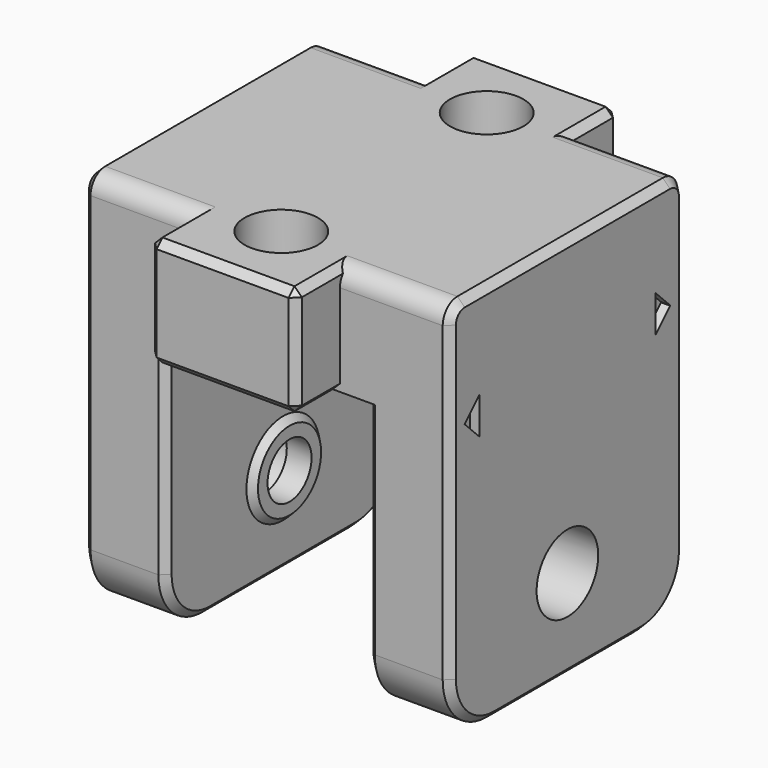
from build123d import *

# Parameters (mm, degrees)
BOX012001004_W     = 1
BOX012001004_H     = 1
BOX012001004_DEPTH = 2
CHAMFER025_SIZE    = 0.99
BOX012001003_W     = 1
BOX012001003_H     = 1
BOX012001003_DEPTH = 2
CHAMFER024_SIZE    = 0.99
CYLINDER014_R      = 2.1
CYLINDER014_DEPTH  = 3.5
CYLINDER015_R      = 2.1
CYLINDER015_DEPTH  = 3.5
CYLINDER004_R      = 1.5
CYLINDER004_DEPTH  = 20
CYLINDER019_R      = 2
CYLINDER019_DEPTH  = 20
CYLINDER018_R      = 2
CYLINDER018_DEPTH  = 20
BOX008_W           = 8
BOX008_H           = 5
BOX008_DEPTH       = 6
CHAMFER015_SIZE    = 0.4
BOX007_W           = 8
BOX007_H           = 5
BOX007_DEPTH       = 6
CHAMFER016_SIZE    = 0.4
BOX002_W           = 20
BOX002_H           = 16
BOX002_DEPTH       = 6
FILLET002_R        = 1
CHAMFER019_SIZE    = 0.4
BOX001_W           = 4.5
BOX001_H           = 16
BOX001_DEPTH       = 15
FILLET001_R        = 3
CHAMFER011_SIZE    = 0.4
CHAMFER018_SIZE    = 0.4
BOX_W              = 4.5
BOX_H              = 16
BOX_DEPTH          = 15
FILLET_R           = 3
CHAMFER010_SIZE    = 0.4
CHAMFER017_SIZE    = 0.4
CYLINDER005_R      = 2.5
CYLINDER005_DEPTH  = 1
CHAMFER001_SIZE    = 0.35
CYLINDER006_R      = 2.5
CYLINDER006_DEPTH  = 1
CHAMFER_SIZE       = 0.35


with BuildPart() as chamfer025:
    # Box012001004 → Box012001004 (new body)
    with BuildSketch(Plane(origin=(9.5, 6, -2), x_dir=(1, 0, 0), z_dir=(0, 0, 1))):
        with Locations((0.5, 0.5)):
            Rectangle(BOX012001004_W, BOX012001004_H)
    extrude(amount=BOX012001004_DEPTH)

    # Chamfer025
    chamfer025_edges = [chamfer025.edges().sort_by_distance(p)[0] for p in [
        (10, 7, -2),
        (10, 7, 0),
    ]]
    chamfer(chamfer025_edges, length=CHAMFER025_SIZE)


with BuildPart() as fusion020006007018006:
    # Box012001003 → Box012001003 (new body)
    with BuildSketch(Plane(origin=(9.5, -7, -2), x_dir=(1, 0, 0), z_dir=(0, 0, 1))):
        with Locations((0.5, 0.5)):
            Rectangle(BOX012001003_W, BOX012001003_H)
    extrude(amount=BOX012001003_DEPTH)

    # Chamfer024
    chamfer024_edges = [fusion020006007018006.edges().sort_by_distance(p)[0] for p in [
        (10, -7, -2),
        (10, -7, 0),
    ]]
    chamfer(chamfer024_edges, length=CHAMFER024_SIZE)

    # Fusion020006007018006: union Chamfer025
    add(chamfer025.part)


with BuildPart() as cylinder014:
    # Cylinder014 → Cylinder014 (new body)
    with BuildSketch(Plane(origin=(-10, 0, 5), x_dir=(0, 0, -1), z_dir=(1, 0, 0))):
        Circle(CYLINDER014_R)
    extrude(amount=CYLINDER014_DEPTH)


with BuildPart() as fusion020006007006:
    # Cylinder015 → Cylinder015 (new body)
    with BuildSketch(Plane(origin=(6.5, 0, 5), x_dir=(0, 0, -1), z_dir=(1, 0, 0))):
        Circle(CYLINDER015_R)
    extrude(amount=CYLINDER015_DEPTH)

    # Fusion020006007006: union Cylinder014
    add(cylinder014.part)


with BuildPart() as cylinder004:
    # Cylinder004 → Cylinder004 (new body)
    with BuildSketch(Plane(origin=(-10, 0, 5), x_dir=(0, 0, -1), z_dir=(1, 0, 0))):
        Circle(CYLINDER004_R)
    extrude(amount=CYLINDER004_DEPTH)


with BuildPart() as cylinder019:
    # Cylinder019 → Cylinder019 (new body)
    with BuildSketch(Plane(origin=(0, 7, 12), x_dir=(1, 0, 0), z_dir=(0, 0, 1))):
        Circle(CYLINDER019_R)
    extrude(amount=CYLINDER019_DEPTH)


with BuildPart() as fusion020006007013:
    # Cylinder018 → Cylinder018 (new body)
    with BuildSketch(Plane(origin=(0, -7, 12), x_dir=(1, 0, 0), z_dir=(0, 0, 1))):
        Circle(CYLINDER018_R)
    extrude(amount=CYLINDER018_DEPTH)

    # Fusion020006007013: union Cylinder019
    add(cylinder019.part)


with BuildPart() as chamfer015:
    # Box008 → Box008 (new body)
    with BuildSketch(Plane(origin=(-4, -10, 15), x_dir=(1, 0, 0), z_dir=(0, 0, 1))):
        with Locations((4, 2.5)):
            Rectangle(BOX008_W, BOX008_H)
    extrude(amount=BOX008_DEPTH)

    # Chamfer015
    chamfer015_edges = [chamfer015.edges().sort_by_distance(p)[0] for p in [
        (-4, -10, 18),
        (-4, -7.5, 21),
        (-4, -5, 18),
        (-4, -7.5, 15),
        (4, -10, 18),
        (4, -7.5, 21),
        (4, -5, 18),
        (4, -7.5, 15),
        (0, -10, 15),
        (0, -10, 21),
        (0, -5, 15),
        (0, -5, 21),
    ]]
    chamfer(chamfer015_edges, length=CHAMFER015_SIZE)


with BuildPart() as chamfer015_1:
    # Chamfer015 placement: moved
    add(chamfer015.part.moved(Location((0, -1, 0))))


with BuildPart() as chamfer016:
    # Box007 → Box007 (new body)
    with BuildSketch(Plane(origin=(-4, 5, 15), x_dir=(1, 0, 0), z_dir=(0, 0, 1))):
        with Locations((4, 2.5)):
            Rectangle(BOX007_W, BOX007_H)
    extrude(amount=BOX007_DEPTH)

    # Chamfer016
    chamfer016_edges = [chamfer016.edges().sort_by_distance(p)[0] for p in [
        (-4, 5, 18),
        (-4, 7.5, 21),
        (-4, 10, 18),
        (-4, 7.5, 15),
        (4, 5, 18),
        (4, 7.5, 21),
        (4, 10, 18),
        (4, 7.5, 15),
        (0, 5, 21),
        (0, 10, 15),
        (0, 10, 21),
    ]]
    chamfer(chamfer016_edges, length=CHAMFER016_SIZE)


with BuildPart() as chamfer016_1:
    # Chamfer016 placement: moved
    add(chamfer016.part.moved(Location((0, 1, 0))))


with BuildPart() as fusion020006007012:
    # Box002 → Box002 (new body)
    with BuildSketch(Plane(origin=(-10, -8, 15), x_dir=(1, 0, 0), z_dir=(0, 0, 1))):
        with Locations((10, 8)):
            Rectangle(BOX002_W, BOX002_H)
    extrude(amount=BOX002_DEPTH)

    # Fillet002
    fillet002_edges = [fusion020006007012.edges().sort_by_distance(p)[0] for p in [
        (0, -8, 21),
        (0, 8, 21),
    ]]
    fillet(fillet002_edges, radius=FILLET002_R)

    # Chamfer019
    chamfer019_edges = [fusion020006007012.edges().sort_by_distance(p)[0] for p in [
        (-10, -8, 17.5),
        (-10, -7.707107, 20.707107),
        (-10, 0, 21),
        (-10, 8, 17.5),
        (-10, 7.707107, 20.707107),
        (10, -8, 17.5),
        (10, -7.707107, 20.707107),
        (10, 0, 21),
        (10, 8, 17.5),
        (10, 7.707107, 20.707107),
    ]]
    chamfer(chamfer019_edges, length=CHAMFER019_SIZE)

    # Fusion020006007012: union Chamfer015, Chamfer016
    add(chamfer015_1.part)
    add(chamfer016_1.part)


with BuildPart() as chamfer018:
    # Box001 → Box001 (new body)
    with BuildSketch(Plane(origin=(-10, -8, 0), x_dir=(1, 0, 0), z_dir=(0, 0, 1))):
        with Locations((2.25, 8)):
            Rectangle(BOX001_W, BOX001_H)
    extrude(amount=BOX001_DEPTH)

    # Fillet001
    fillet001_edges = [chamfer018.edges().sort_by_distance(p)[0] for p in [
        (-7.75, -8, 0),
        (-7.75, 8, 0),
    ]]
    fillet(fillet001_edges, radius=FILLET001_R)

    # Chamfer011
    chamfer011_edges = [chamfer018.edges().sort_by_distance(p)[0] for p in [
        (-5.5, -8, 9),
        (-5.5, -7.12132, 0.87868),
        (-5.5, 0, 0),
        (-5.5, 8, 9),
        (-5.5, 7.12132, 0.87868),
    ]]
    chamfer(chamfer011_edges, length=CHAMFER011_SIZE)

    # Chamfer018
    chamfer018_edges = [chamfer018.edges().sort_by_distance(p)[0] for p in [
        (-10, -8, 9),
        (-10, -7.12132, 0.87868),
        (-10, 0, 0),
        (-10, 8, 9),
        (-10, 7.12132, 0.87868),
    ]]
    chamfer(chamfer018_edges, length=CHAMFER018_SIZE)


with BuildPart() as cut009006:
    # Box → Box (new body)
    with BuildSketch(Plane(origin=(5.5, -8, 0), x_dir=(1, 0, 0), z_dir=(0, 0, 1))):
        with Locations((2.25, 8)):
            Rectangle(BOX_W, BOX_H)
    extrude(amount=BOX_DEPTH)

    # Fillet
    fillet_edges = [cut009006.edges().sort_by_distance(p)[0] for p in [
        (7.75, -8, 0),
        (7.75, 8, 0),
    ]]
    fillet(fillet_edges, radius=FILLET_R)

    # Chamfer010
    chamfer010_edges = [cut009006.edges().sort_by_distance(p)[0] for p in [
        (5.5, -8, 9),
        (5.5, -7.12132, 0.87868),
        (5.5, 0, 0),
        (5.5, 8, 9),
        (5.5, 7.12132, 0.87868),
    ]]
    chamfer(chamfer010_edges, length=CHAMFER010_SIZE)

    # Chamfer017
    chamfer017_edges = [cut009006.edges().sort_by_distance(p)[0] for p in [
        (10, -8, 9),
        (10, 8, 9),
        (10, -7.12132, 0.87868),
        (10, 0, 0),
        (10, 7.12132, 0.87868),
    ]]
    chamfer(chamfer017_edges, length=CHAMFER017_SIZE)

    # Fusion020006007014: union Fusion020006007012, Chamfer018
    add(fusion020006007012.part)
    add(chamfer018.part)

    # Cut009006: cut Fusion020006007013
    add(fusion020006007013.part, mode=Mode.SUBTRACT)


with BuildPart() as chamfer001:
    # Cylinder005 → Cylinder005 (new body)
    with BuildSketch(Plane(origin=(5.15, 0, 5), x_dir=(0, 0, -1), z_dir=(1, 0, 0))):
        Circle(CYLINDER005_R)
    extrude(amount=CYLINDER005_DEPTH)

    # Chamfer001
    chamfer001_edges = [chamfer001.edges().sort_by_distance(p)[0] for p in [
        (5.15, 0, 7.5),
    ]]
    chamfer(chamfer001_edges, length=CHAMFER001_SIZE)


with BuildPart() as cut009010005:
    # Cylinder006 → Cylinder006 (new body)
    with BuildSketch(Plane(origin=(-6.15, 0, 5), x_dir=(0, 0, -1), z_dir=(1, 0, 0))):
        Circle(CYLINDER006_R)
    extrude(amount=CYLINDER006_DEPTH)

    # Chamfer
    chamfer_edges = [cut009010005.edges().sort_by_distance(p)[0] for p in [
        (-5.15, 0, 7.5),
    ]]
    chamfer(chamfer_edges, length=CHAMFER_SIZE)

    # Fusion041004003: union Chamfer001
    add(chamfer001.part)

    # Fusion020006007015: union Cut009006
    add(cut009006.part)

    # Cut009007: cut Cylinder004
    add(cylinder004.part, mode=Mode.SUBTRACT)

    # Cut009008: cut Fusion020006007006
    add(fusion020006007006.part, mode=Mode.SUBTRACT)


with BuildPart() as cut009010005_1:
    # Cut009008 placement: moved
    add(cut009010005.part.moved(Location((0, 0, -16))))

    # Cut009010005: cut Fusion020006007018006
    add(fusion020006007018006.part, mode=Mode.SUBTRACT)


solid = cut009010005_1.part
